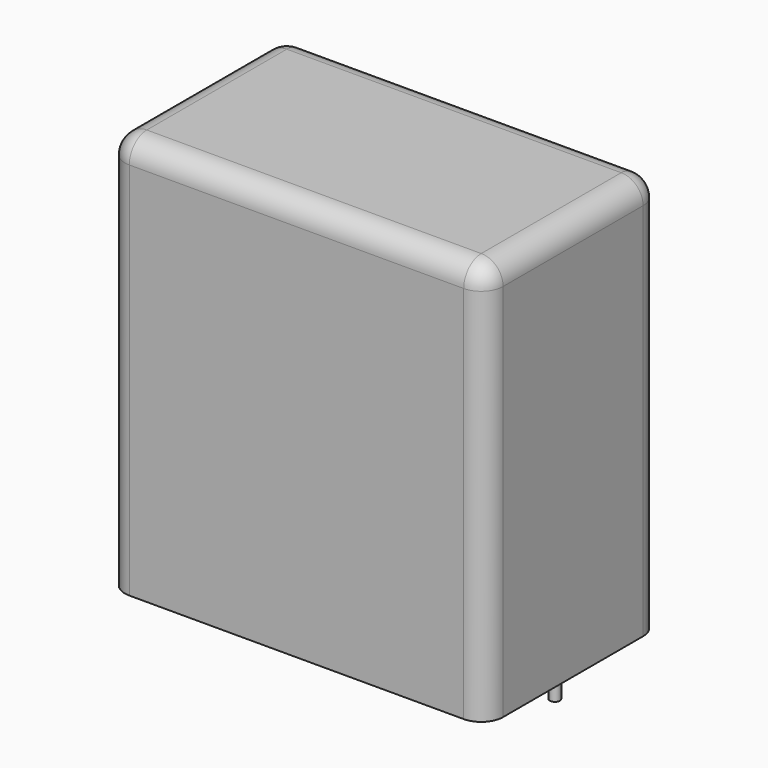
from build123d import *

# Parameters (mm, degrees)
SKETCH_W     = 41.5
SKETCH_H     = 24
PAD_DEPTH    = 44
FILLET_R     = 2.4
SKETCH001_R  = 0.55
PAD001_DEPTH = 3.2


with BuildPart() as fillet_body:
    # Sketch → Pad (new body)
    with BuildSketch(Plane.XY.offset(0.1)):
        with Locations((18.75, 0)):
            Rectangle(SKETCH_W, SKETCH_H)
    extrude(amount=PAD_DEPTH)

    # Fillet
    fillet_edges = [fillet_body.edges().sort_by_distance(p)[0] for p in [
        (-2, 0, 44.1),
        (-2, -12, 22.1),
        (18.75, -12, 44.1),
        (39.5, -12, 22.1),
        (39.5, 0, 44.1),
        (39.5, 12, 22.1),
        (18.75, 12, 44.1),
        (-2, 12, 22.1),
    ]]
    fillet(fillet_edges, radius=FILLET_R)


with BuildPart() as pad001:
    # Sketch001 → Pad001 (new body)
    with BuildSketch(Plane.XY.offset(0.5)):
        Circle(SKETCH001_R)
        with Locations((37.5, 0)):
            Circle(SKETCH001_R)
    extrude(amount=-PAD001_DEPTH)


solid = Compound([fillet_body.part, pad001.part])
